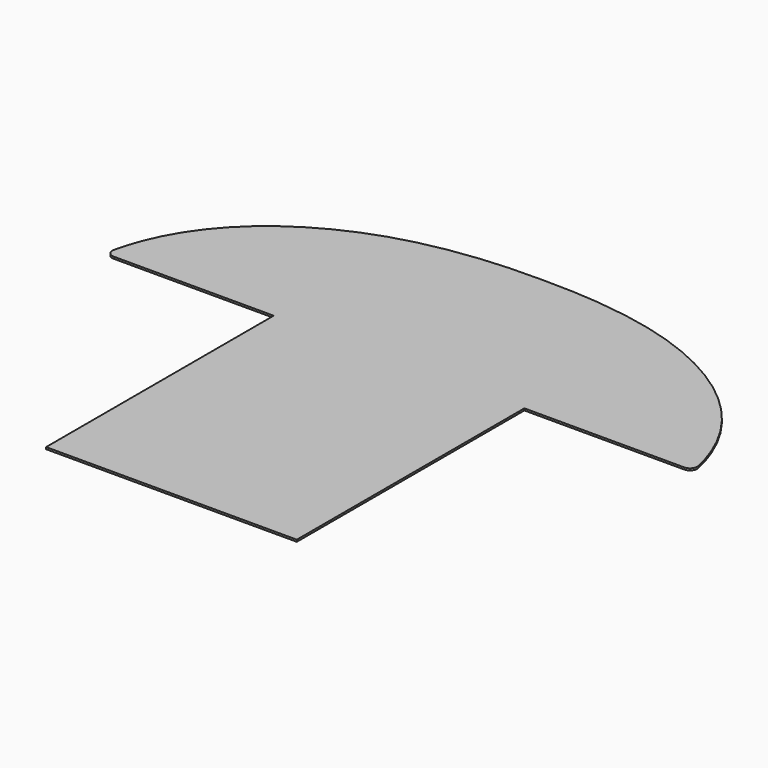
from build123d import *

# Parameters (mm, degrees)
F1_DEPTH = 5.08
F3_R     = 19.05


with BuildPart() as f1:
    # F0 (on Top) → F1 (new body)
    with BuildSketch(Plane.XY):
        with BuildLine():
            Line((330.2, -749.3), (330.2, 0))
            Line((330.2, 0), (774.7, 0))
            add(Edge.make_bspline(
                [(0, 469.9), (34.1164730489, 469.9), (385.0416966647, 476.161289739), (732.4479509774, 239.6232774633), (774.7, 0)],
                knots=[0, 0, 0, 0, 0.4227573718, 1, 1, 1, 1], degree=3))
            Line((0, 469.9), (0, 0))
            Line((0, 0), (0, -749.3))
            Line((0, -749.3), (330.2, -749.3))
        make_face()
    extrude(amount=F1_DEPTH)

    # F2: F1 across face


with BuildPart() as f1_1:
    add(f1.part)
    add(f1.part.mirror(Plane(origin=(0, -139.7, 2.54), x_dir=(0, -1, 0), z_dir=(-1, 0, 0))))

    # F3
    f3_edges = [f1_1.edges().sort_by_distance(p)[0] for p in [
        (-774.7, 0, 2.54),
        (774.7, 0, 2.54),
    ]]
    fillet(f3_edges, radius=F3_R)


solid = f1_1.part
